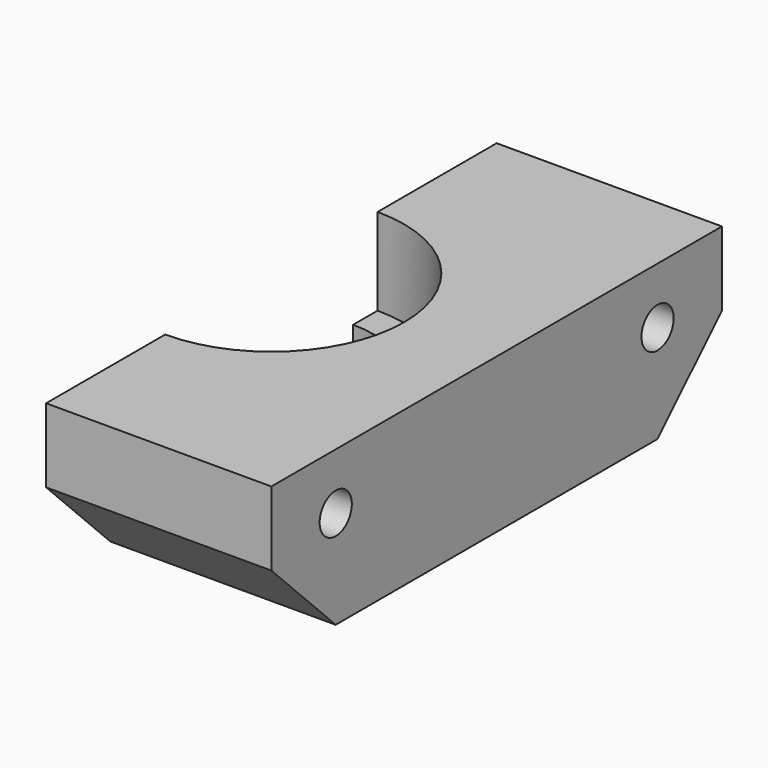
from build123d import *

# Parameters (mm, degrees)
F0_W     = 35
F0_H     = 9.6
F1_DEPTH = 14
F2_R     = 8.25
F2_R_2   = 6.35
F3_DEPTH = 5.4
F4_DEPTH = 25
F5_SIZE  = 5
F7_D     = 2.5


with BuildPart() as f1:
    # F0 (on Right) → F1 (new body)
    with BuildSketch(Plane.YZ):
        Rectangle(F0_W, F0_H)
    extrude(amount=F1_DEPTH)

    # F2 (on face) → F3 (cut)
    with BuildSketch(Plane.XY.offset(4.8)):
        Circle(F2_R)
        Circle(F2_R_2, mode=Mode.SUBTRACT)
        with BuildLine():
            Line((0, -6.35), (0, 6.35))
            ThreePointArc((0, 6.35), (-6.35, 0), (0, -6.35))
        make_face()
        with BuildLine():
            ThreePointArc((0, -6.35), (4.4901280605, -4.4901280605), (6.35, 0))
            ThreePointArc((6.35, 0), (4.4901280605, 4.4901280605), (0, 6.35))
            Line((0, 6.35), (0, -6.35))
        make_face()
    extrude(amount=-F3_DEPTH, mode=Mode.SUBTRACT)

    # F2 (on face) → F4 (cut)
    with BuildSketch(Plane.XY.offset(4.8)):
        with BuildLine():
            ThreePointArc((0, -6.35), (4.4901280605, -4.4901280605), (6.35, 0))
            ThreePointArc((6.35, 0), (4.4901280605, 4.4901280605), (0, 6.35))
            Line((0, 6.35), (0, -6.35))
        make_face()
    extrude(amount=-F4_DEPTH, mode=Mode.SUBTRACT)

    # F5
    f5_edges = [f1.edges().sort_by_distance(p)[0] for p in [
        (7, 17.5, -4.8),
        (7, -17.5, -4.8),
    ]]
    chamfer(f5_edges, length=F5_SIZE)

    # F7 (through all)
    with Locations(Plane.YZ.offset(14)):
        with Locations((-12.5, 1.3), (12.5, 1.3)):
            Hole(F7_D / 2)


solid = f1.part
